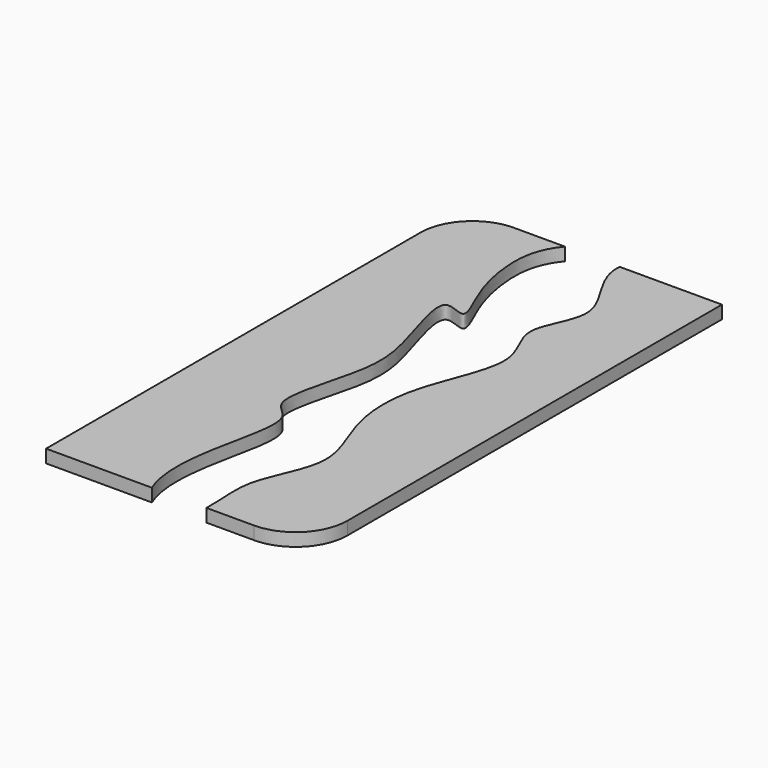
from build123d import *

# Parameters (mm, degrees)
F0_W     = 500
F0_H     = 1000
F1_DEPTH = 25
F3_DEPTH = 99
F4_R     = 100


with BuildPart() as f1:
    # F0 (on Top) → F1 (new body)
    with BuildSketch(Plane.XY):
        with Locations((0.9603649378, -76.4063263884)):
            Rectangle(F0_W, F0_H)
    extrude(amount=F1_DEPTH)

    # F2 (on face) → F3 (cut)
    with BuildSketch(Plane.XY.offset(25)):
        with BuildLine():
            add(Edge.make_bspline(
                [(-51.173787564, 423.5936736116), (-80.5005236088, 388.1406122859), (-83.5145564382, 312.7919192178), (-61.5624434267, 225.9833945323), (-14.2929601622, 137.1863701204), (-99.8505453147, 192.2478375482), (-41.6000611705, 28.7090729978), (-25.9376231385, -70.9455595395), (-89.9978816849, -243.6253300671), (-18.1607772932, -269.1289056067), (-49.4480231275, -399.8554978426), (-76.7408306681, -570.453679), (41.008478918, -690.1251646397), (67.1934835526, -566.6794338544), (45.0949246538, -468.6995369717), (125.6387581741, -346.2431901881), (56.3808933749, -225.4050491052), (49.2182151148, -76.4925766249), (139.3888222687, 84.8269632912), (53.4448268771, 175.1145434381), (145.976295163, 283.6921734118), (27.4815016079, 391.283020415), (88.3157112942, 520.6733456892), (-20.68684172, 460.4493113816), (-51.173787564, 423.5936736116)],
                knots=[0, 0, 0, 0, 0.0461982273, 0.0901317264, 0.1241903759, 0.1507553377, 0.1981562591, 0.2478083658, 0.3020896759, 0.3323131277, 0.3794419456, 0.4385079972, 0.4836235398, 0.5226687137, 0.5677141191, 0.616910557, 0.6657512414, 0.7188596046, 0.7751827584, 0.8177154273, 0.8625091957, 0.9134869378, 0.9519741013, 1, 1, 1, 1], degree=3))
        make_face()
    extrude(amount=-F3_DEPTH, mode=Mode.SUBTRACT)

    # F4
    f4_edges = [f1.edges().sort_by_distance(p)[0] for p in [
        (250.960365, -576.406326, 12.5),
        (-249.039635, 423.593674, 12.5),
    ]]
    fillet(f4_edges, radius=F4_R)


solid = f1.part
